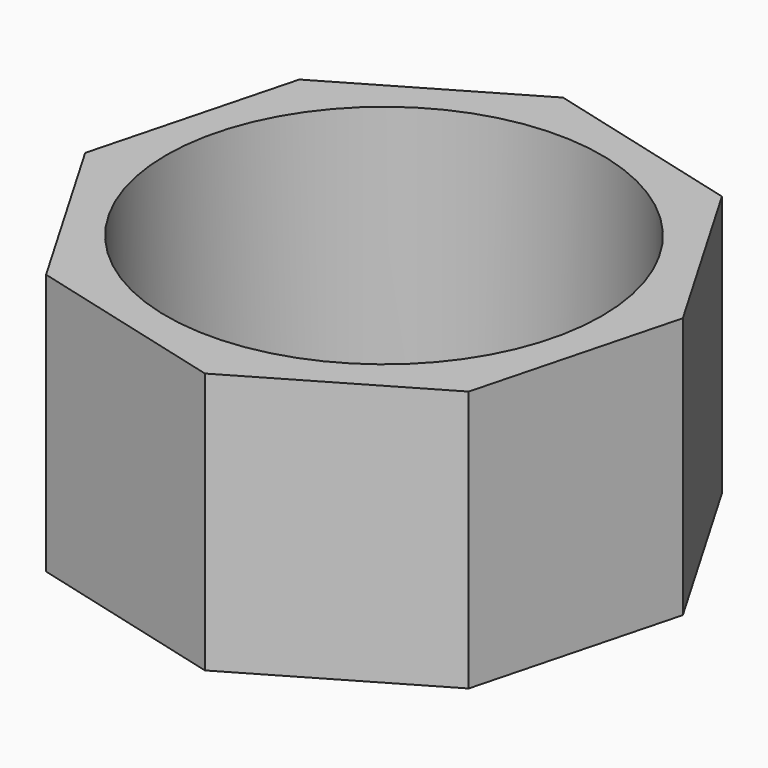
from build123d import *

# Parameters (mm, degrees)
F1_DEPTH = 19.812
F2_R     = 16.51
F3_DEPTH = 25.4


with BuildPart() as f1:
    # F0 (on Top) → F1 (new body)
    with BuildSketch(Plane.XY):
        Polygon((20.432234, 2.77318), (12.486837, 16.408706), (-2.77318, 20.432234), (-16.408706, 12.486837), (-20.432234, -2.77318), (-12.486837, -16.408706), (2.77318, -20.432234), (16.408706, -12.486837), align=None)
    extrude(amount=F1_DEPTH)

    # F2 (on face) → F3 (cut)
    with BuildSketch(Plane.XY.offset(19.812)):
        Circle(F2_R)
    extrude(amount=-F3_DEPTH, mode=Mode.SUBTRACT)


solid = f1.part
